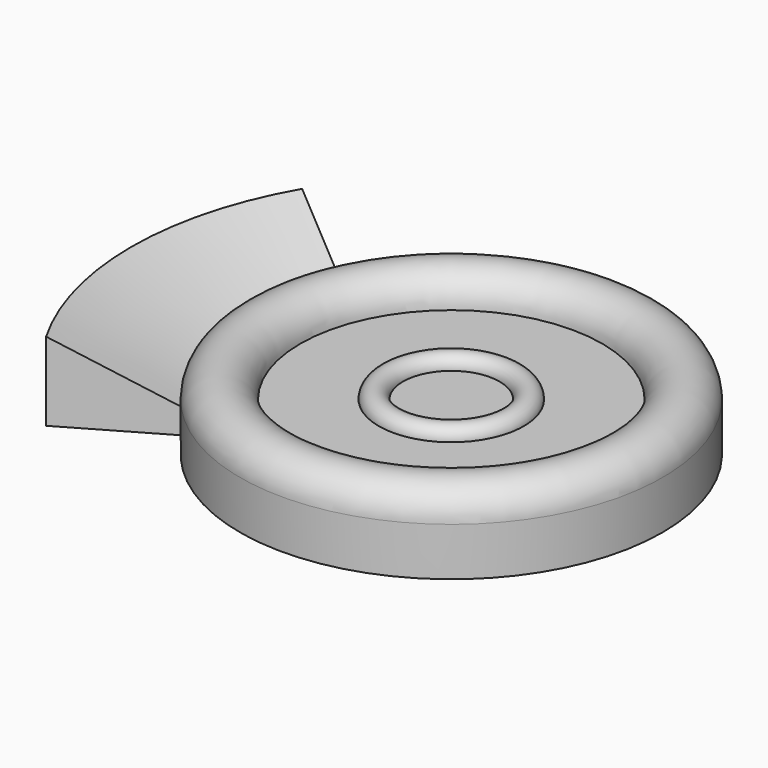
from build123d import *

# Parameters (mm, degrees)
F2_ANGLE = 60


with BuildPart() as f1:
    # F0 (on Front) → F1 (revolve)
    with BuildSketch(Plane.XZ):
        with BuildLine():
            Line((0, -8), (0, 0))
            Line((0, 0), (-8, 0))
            Line((-8, 0), (-12, 0))
            Line((-12, 0), (-25, 0))
            ThreePointArc((-25, 0), (-30, 5), (-35, 0))
            Line((-35, 0), (-35, -4))
            Line((-35, -4), (-35, -8))
            Line((-35, -8), (0, -8))
        make_face()
        with BuildLine():
            Line((-12, 0), (-8, 0))
            ThreePointArc((-8, 0), (-10, 2), (-12, 0))
        make_face()
    revolve(axis=Axis((0, 0, -4), (0, 0, -1)))

    # F0 (on Front) → F2 (revolve, symmetric)
    with BuildSketch(Plane.XZ) as f2_sk:
        Polygon((-53, -8), (-35, -8), (-35, -4), (-53, 5), align=None)
    revolve(axis=Axis((0, 0, -4), (0, 0, -1)), revolution_arc=F2_ANGLE / 2)
    revolve(f2_sk.sketch, axis=Axis((0, 0, -4), (0, 0, 1)), revolution_arc=F2_ANGLE / 2)


solid = f1.part
